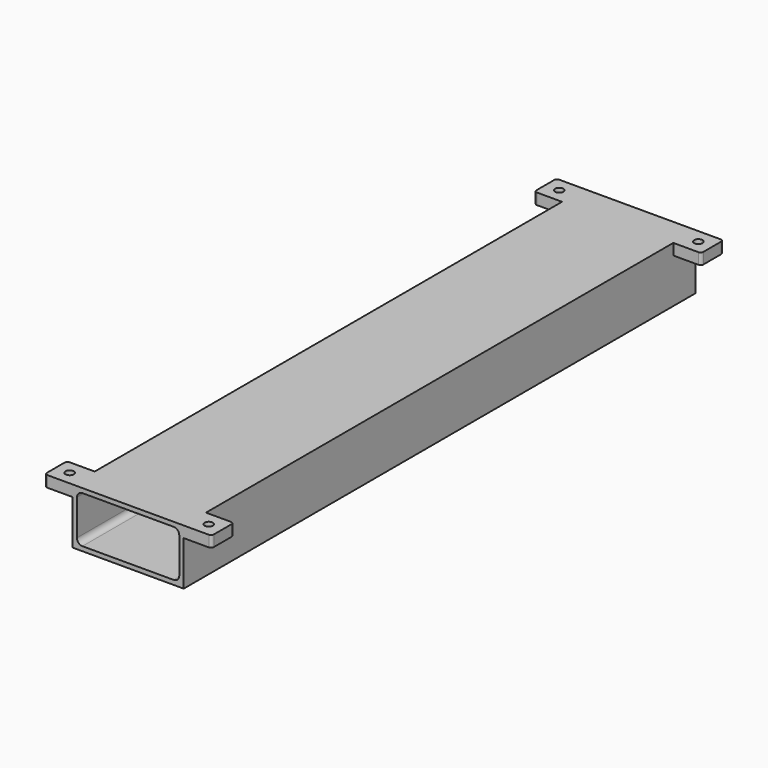
from build123d import *

# Parameters (mm, degrees)
F0_W     = 200
F0_H     = 100
F1_DEPTH = 575
F2_R     = 7.5
F3_DEPTH = 20


with BuildPart() as f1:
    # F0 (on Front) → F1 (new body, symmetric)
    with BuildSketch(Plane.XZ):
        with Locations((0, -50)):
            Rectangle(F0_W, F0_H)
        with BuildLine():
            ThreePointArc((-92, -18), (-89.0710678119, -10.9289321881), (-82, -8))
            Line((-82, -8), (82, -8))
            ThreePointArc((82, -8), (89.0710678119, -10.9289321881), (92, -18))
            Line((92, -18), (92, -82))
            ThreePointArc((92, -82), (89.0710678119, -89.0710678119), (82, -92))
            Line((82, -92), (-82, -92))
            ThreePointArc((-82, -92), (-89.0710678119, -89.0710678119), (-92, -82))
            Line((-92, -82), (-92, -18))
        make_face(mode=Mode.SUBTRACT)
    extrude(amount=F1_DEPTH, both=True)

    # F2 (on face) → F3 (join)
    with BuildSketch(Plane.XY):
        with BuildLine():
            Line((-145, -575), (-100, -575))
            Line((-100, -575), (-100, -525))
            Line((-100, -525), (-145, -525))
            ThreePointArc((-145, -525), (-148.5355339059, -526.4644660941), (-150, -530))
            Line((-150, -530), (-150, -570))
            ThreePointArc((-150, -570), (-148.5355339059, -573.5355339059), (-145, -575))
        make_face()
        with Locations((-125, -550)):
            Circle(F2_R, mode=Mode.SUBTRACT)
    extrude(amount=-F3_DEPTH)

    # F4: F1 across plane


with BuildPart() as f1_1:
    add(f1.part)
    add(f1.part.mirror(Plane.XZ))

    # F5: F1 across plane


with BuildPart() as f1_2:
    add(f1_1.part)
    add(f1_1.part.mirror(Plane.YZ))


solid = f1_2.part
